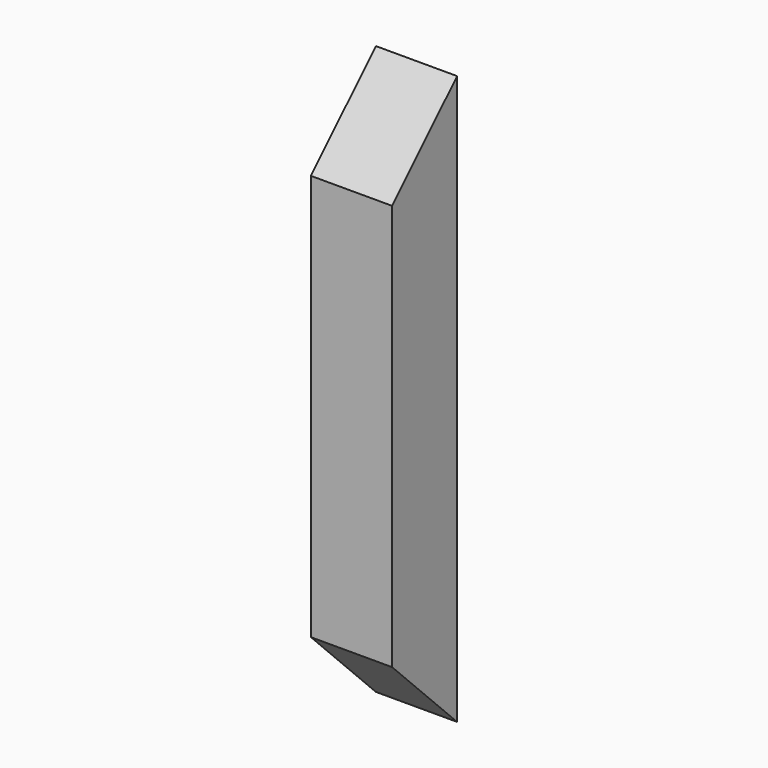
from build123d import *

# Parameters (mm, degrees)
F0_W     = 101.6
F0_H     = 711.2
F1_DEPTH = 101.6
F3_DEPTH = 101.6


with BuildPart() as f1:
    # F0 (on Right) → F1 (new body)
    with BuildSketch(Plane.YZ):
        Rectangle(F0_W, F0_H)
    extrude(amount=F1_DEPTH)

    # F2 (on face) → F3 (cut)
    with BuildSketch(Plane.YZ.offset(101.6)):
        Polygon((-50.8, 254), (50.8, 355.6), (-50.8, 355.6), align=None)
        Polygon((-50.8, -355.6), (50.8, -355.6), (-50.8, -254), align=None)
    extrude(amount=-F3_DEPTH, mode=Mode.SUBTRACT)


solid = f1.part
